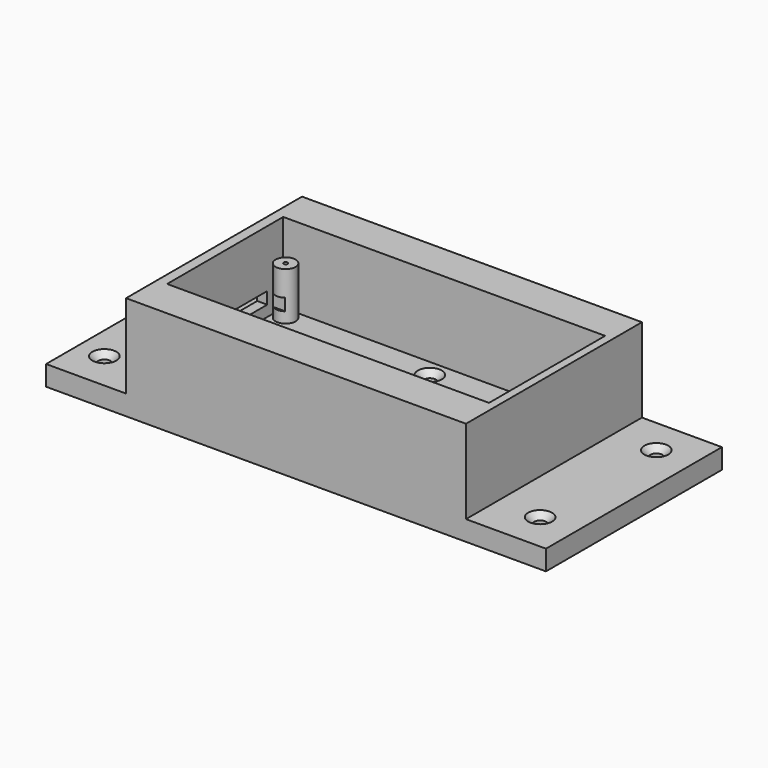
from build123d import *

# Parameters (mm, degrees)
F0_W      = 125
F0_H      = 55
F1_DEPTH  = 5
F2_W      = 85
F2_H      = 55
F3_DEPTH  = 21
F4_W      = 80.5
F4_H      = 36.3
F5_DEPTH  = 20
F6_R      = 2.5
F7_DEPTH  = 12
F8_W      = 12
F8_H      = 3
F9_DEPTH  = 25
F10_R     = 0.5
F11_DEPTH = 3
F12_R     = 1.5
F13_DEPTH = 25
F14_SIZE  = 1.5


with BuildPart() as f1:
    # F0 (on Top) → F1 (new body)
    with BuildSketch(Plane.XY):
        with Locations((62.5, 27.5)):
            Rectangle(F0_W, F0_H)
    extrude(amount=F1_DEPTH)

    # F2 (on face) → F3 (join)
    with BuildSketch(Plane.XY.offset(5)):
        with Locations((62.5, 27.5)):
            Rectangle(F2_W, F2_H)
    extrude(amount=F3_DEPTH)

    # F4 (on face) → F5 (cut)
    with BuildSketch(Plane.XY.offset(26)):
        with Locations((62.75, 27.85)):
            Rectangle(F4_W, F4_H)
    extrude(amount=-F5_DEPTH, mode=Mode.SUBTRACT)

    # F6 (on face) → F7 (join)
    with BuildSketch(Plane.XY.offset(6)):
        with Locations((25.5, 43)):
            Circle(F6_R)
        with Locations((100.4, 43.4)):
            Circle(F6_R)
        with Locations((100.4, 12.3)):
            Circle(F6_R)
        with Locations((25.5, 12.3)):
            Circle(F6_R)
    extrude(amount=F7_DEPTH)

    # F8 (on face) → F9 (cut)
    with BuildSketch(Plane(origin=(20, 0, 0), x_dir=(0, -1, 0), z_dir=(-1, 0, 0))):
        with Locations((-35, 10.209870059)):
            Rectangle(F8_W, F8_H)
    extrude(amount=-F9_DEPTH, mode=Mode.SUBTRACT)

    # F10 (on face) → F11 (cut)
    with BuildSketch(Plane.XY.offset(18)):
        with Locations((25.5, 43)):
            Circle(F10_R)
        with Locations((25.5017764866, 12)):
            Circle(F10_R)
        with Locations((100.5, 43.2148650289)):
            Circle(F10_R)
        with Locations((100.5017764866, 12.2148650289)):
            Circle(F10_R)
    extrude(amount=-F11_DEPTH, mode=Mode.SUBTRACT)

    # F12 (on face) → F13 (cut)
    with BuildSketch(Plane.XY.offset(6)):
        with Locations((62.6007243991, 41.7070947587)):
            Circle(F12_R)
        with Locations((63.5717511177, 14.8420426995)):
            Circle(F12_R)
        with Locations((6.820677314, 46)):
            Circle(F12_R)
        with Locations((6.820677314, 9.7)):
            Circle(F12_R)
        with Locations((115.7913729548, 46)):
            Circle(F12_R)
        with Locations((115.7913729548, 9.7)):
            Circle(F12_R)
    extrude(amount=-F13_DEPTH, mode=Mode.SUBTRACT)

    # F14
    f14_edges = [f1.edges().sort_by_distance(p)[0] for p in [
        (5.320677, 46, 5),
        (5.320677, 9.7, 5),
        (114.291373, 9.7, 5),
        (114.291373, 46, 5),
        (61.100724, 41.707095, 6),
        (62.071751, 14.842043, 6),
    ]]
    chamfer(f14_edges, length=F14_SIZE)


solid = f1.part
